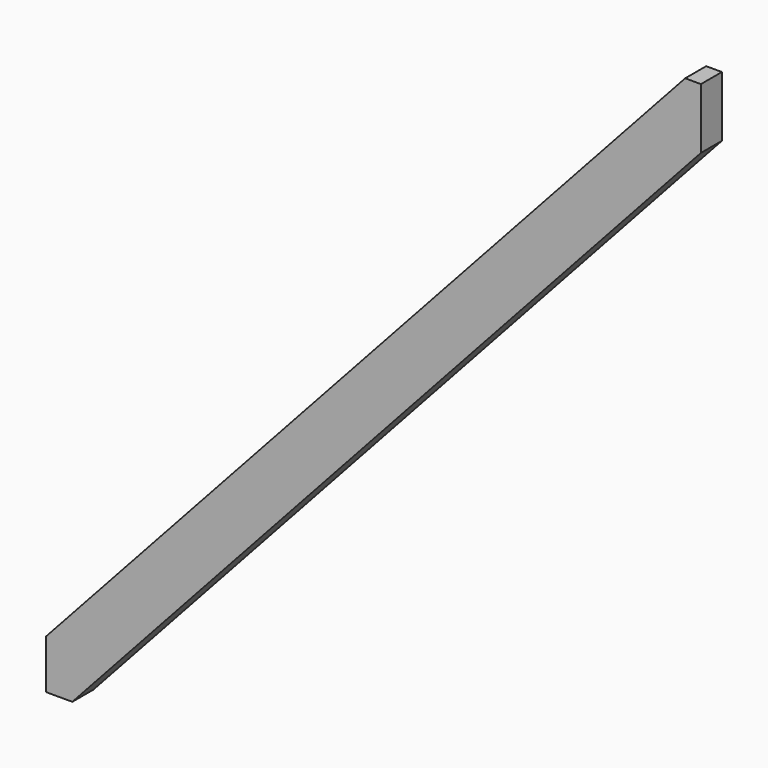
from build123d import *

# Parameters (mm, degrees)
F1_DEPTH = 50


with BuildPart() as f1:
    # F0 (on Front) → F1 (new body)
    with BuildSketch(Plane.XZ):
        Polygon((-1197.5, 0), (0, 1310), (-73.808893, 1377.470343), (-1247.5, 93.515981), (-1247.5, 0), align=None)
        Polygon((-73.808893, 1377.470343), (0, 1310), (0, 1425.394895), (-30, 1425.394895), align=None)
    extrude(amount=F1_DEPTH)


solid = f1.part
